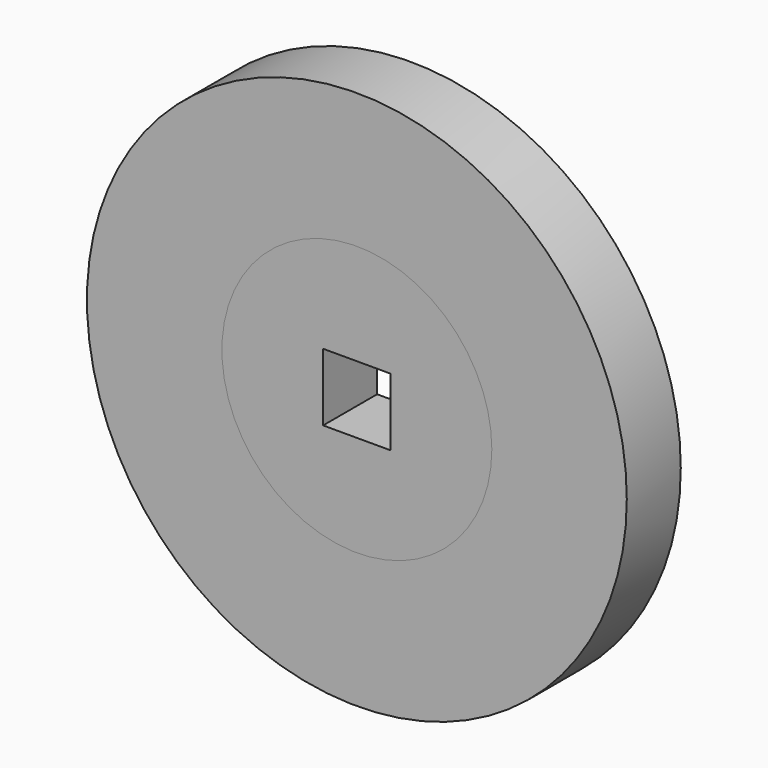
from build123d import *

# Parameters (mm, degrees)
F0_R     = 50.8
F0_R_2   = 25.4
F1_DEPTH = 12.7
F0_W     = 12.7
F0_H     = 12.7
F2_DEPTH = 12.7


with BuildPart() as f1:
    # F0 (on Front) → F1 (new body)
    with BuildSketch(Plane.XZ):
        Circle(F0_R)
        Circle(F0_R_2, mode=Mode.SUBTRACT)
    extrude(amount=F1_DEPTH)


with BuildPart() as f2:
    # F0 (on Front) → F2 (new body)
    with BuildSketch(Plane.XZ):
        Circle(F0_R_2)
        Rectangle(F0_W, F0_H, mode=Mode.SUBTRACT)
    extrude(amount=F2_DEPTH)


solid = Compound([f1.part, f2.part])
